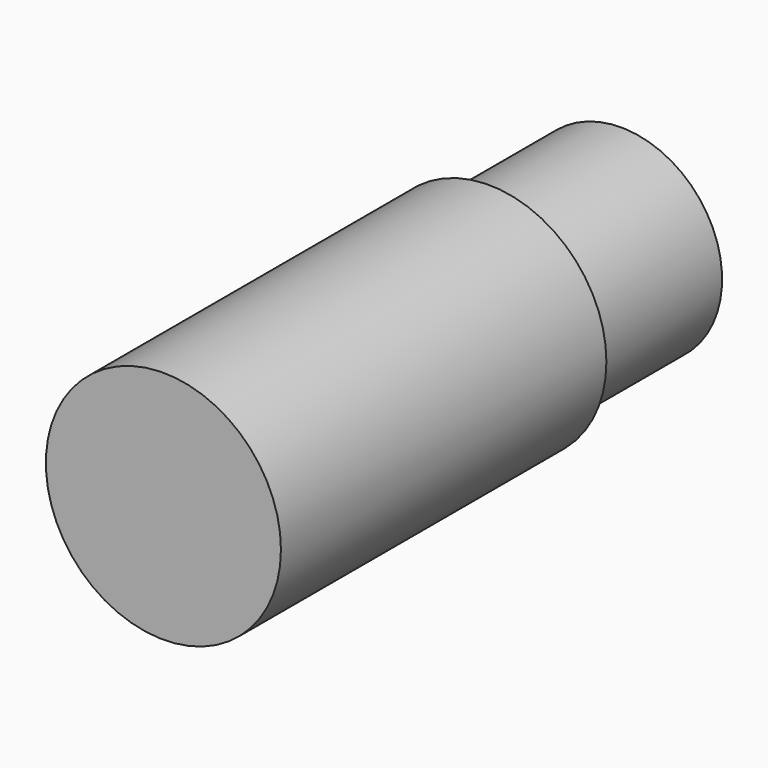
from build123d import *

# Parameters (mm, degrees)
F0_R     = 6.4
F1_DEPTH = 22.15
F2_R     = 5.5
F2_R_2   = 3
F3_DEPTH = 9


with BuildPart() as f1:
    # F0 (on Front) → F1 (new body)
    with BuildSketch(Plane.XZ):
        Circle(F0_R)
        Circle(F0_R)
    extrude(amount=F1_DEPTH)

    # F2 (on face) → F3 (join)
    with BuildSketch(Plane(origin=(0, 0, 0), x_dir=(-1, 0, 0), z_dir=(0, 1, 0))):
        Circle(F2_R)
        Circle(F2_R_2, mode=Mode.SUBTRACT)
        Circle(F2_R)
        Circle(F2_R_2, mode=Mode.SUBTRACT)
    extrude(amount=F3_DEPTH)


solid = f1.part
